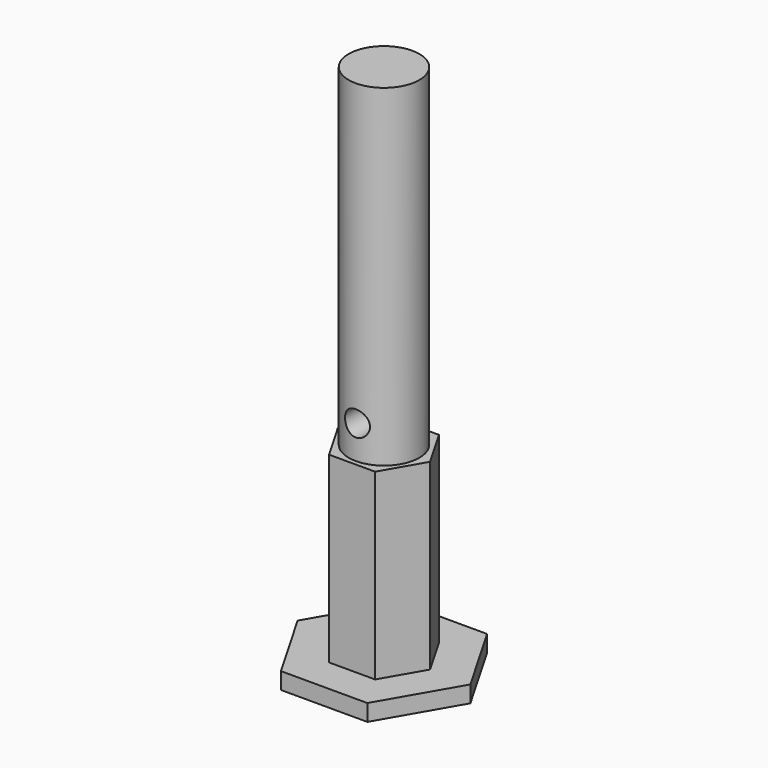
from build123d import *

# Parameters (mm, degrees)
F1_DEPTH = 160
F3_DEPTH = 5
F4_R     = 10.625
F5_DEPTH = 100
F6_R     = 3.75
F7_DEPTH = 50


with BuildPart() as f1:
    # F0 (on Top) → F1 (new body)
    with BuildSketch(Plane.XY):
        Polygon((6.928203, 12), (-6.928203, 12), (-13.856406, 0), (-6.928203, -12), (6.928203, -12), (13.856406, 0), align=None)
    extrude(amount=F1_DEPTH)

    # F2 (on Top) → F3 (join)
    with BuildSketch(Plane.XY):
        Polygon((-12.990381, -22.5), (12.990381, -22.5), (25.980762, 0), (12.990381, 22.5), (-12.990381, 22.5), (-25.980762, 0), align=None)
    extrude(amount=F3_DEPTH)

    # F4 (on face) → F5 (cut)
    with BuildSketch(Plane.XY.offset(160)):
        Polygon((6.928203, 12), (-6.928203, 12), (-13.856406, 0), (-6.928203, -12), (6.928203, -12), (13.856406, 0), align=None)
        Circle(F4_R, mode=Mode.SUBTRACT)
    extrude(amount=-F5_DEPTH, mode=Mode.SUBTRACT)

    # F6 (on Front) → F7 (cut, symmetric)
    with BuildSketch(Plane.XZ):
        with Locations((0, 70)):
            Circle(F6_R)
    extrude(amount=F7_DEPTH, both=True, mode=Mode.SUBTRACT)


solid = f1.part
